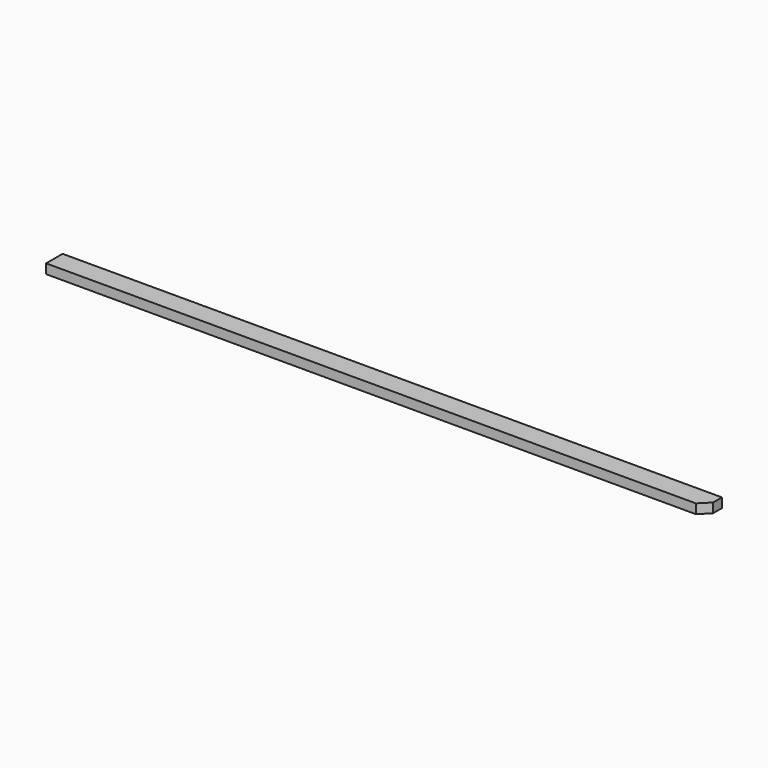
from build123d import *

# Parameters (mm, degrees)
F0_W     = 8300
F0_H     = 260
F1_DEPTH = 120
F2_SIZE2 = 120
F2_SIZE  = 120


with BuildPart() as f1:
    # F0 (on Top) → F1 (new body)
    with BuildSketch(Plane.XY):
        with Locations((2.303854, -210.847361)):
            Rectangle(F0_W, F0_H)
    extrude(amount=F1_DEPTH)

    # F2
    f2_edges = [f1.edges().sort_by_distance(p)[0] for p in [
        (4152.303854, -340.847361, 60),
    ]]
    chamfer(f2_edges, length=F2_SIZE, length2=F2_SIZE2)


solid = f1.part
